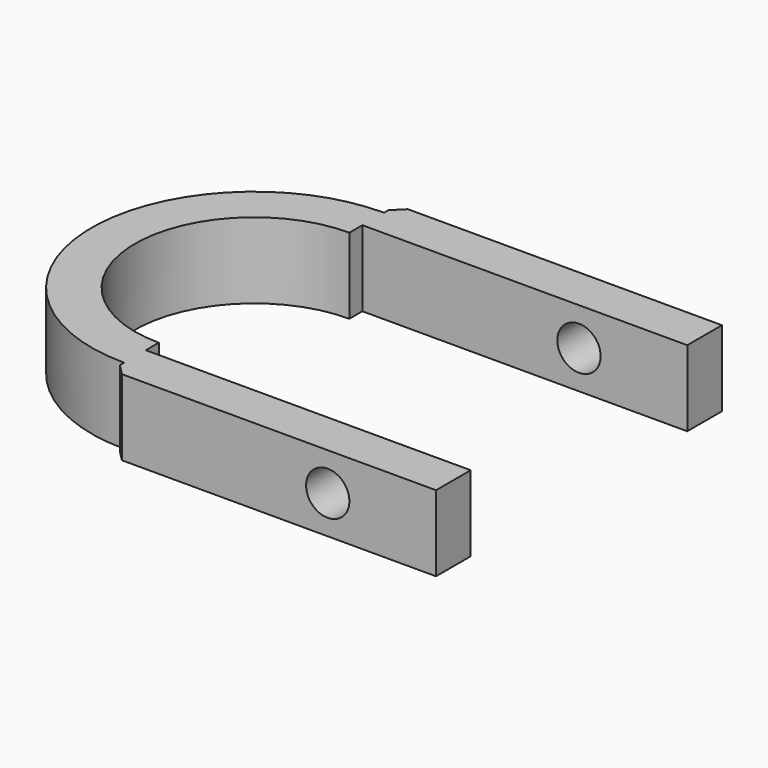
from build123d import *

# Parameters (mm, degrees)
BOX001_W               = 30
BOX001_H               = 25
BOX001_DEPTH           = 7
CYLINDER002_R          = 2
CYLINDER002_DEPTH      = 40
CYLINDER002_ROLL_ANGLE = -90
CYLINDER_R             = 11
CYLINDER_DEPTH         = 7
CYLINDER001_R          = 15
CYLINDER001_DEPTH      = 7
BOX_W                  = 30
BOX_H                  = 33
BOX_DEPTH              = 7
CHAMFER_SIZE           = 1


with BuildPart() as cube001:
    # Box001 → Box001 (new body)
    with BuildSketch(Plane(origin=(0, -12.5, -3.5), x_dir=(1, 0, 0), z_dir=(0, 0, 1))):
        with Locations((15, 12.5)):
            Rectangle(BOX001_W, BOX001_H)
    extrude(amount=BOX001_DEPTH)


with BuildPart() as screw:
    # Cylinder002 → Cylinder002 (new body)
    with BuildSketch(Plane.XY):
        Circle(CYLINDER002_R)
    extrude(amount=CYLINDER002_DEPTH)


with BuildPart() as screw_1:
    # Cylinder002 roll: moved
    add(screw.part.rotate(Axis((0, 0, 0), (1, 0, 0)), CYLINDER002_ROLL_ANGLE))


with BuildPart() as screw_2:
    # Cylinder002 placement: moved
    add(screw_1.part.moved(Location((20, -20, 0))))


with BuildPart() as negative_fusion:
    # Cylinder → Cylinder (new body)
    with BuildSketch(Plane.XY.offset(-3.5)):
        Circle(CYLINDER_R)
    extrude(amount=CYLINDER_DEPTH)

    # Fusion001: union Cube001, Screw
    add(cube001.part)
    add(screw_2.part)


with BuildPart() as bearingouter:
    # Cylinder001 → Cylinder001 (new body)
    with BuildSketch(Plane.XY.offset(-3.5)):
        Circle(CYLINDER001_R)
    extrude(amount=CYLINDER001_DEPTH)


with BuildPart() as chamfer_body:
    # Box → Box (new body)
    with BuildSketch(Plane(origin=(0, -16.5, -3.5), x_dir=(1, 0, 0), z_dir=(0, 0, 1))):
        with Locations((15, 16.5)):
            Rectangle(BOX_W, BOX_H)
    extrude(amount=BOX_DEPTH)

    # Fusion: union BearingOuter
    add(bearingouter.part)

    # Cut: cut Negative Fusion
    add(negative_fusion.part, mode=Mode.SUBTRACT)

    # Chamfer
    chamfer_edges = [chamfer_body.edges().sort_by_distance(p)[0] for p in [
        (0, -16.5, 0),
        (0, 16.5, 0),
    ]]
    chamfer(chamfer_edges, length=CHAMFER_SIZE)


solid = chamfer_body.part
